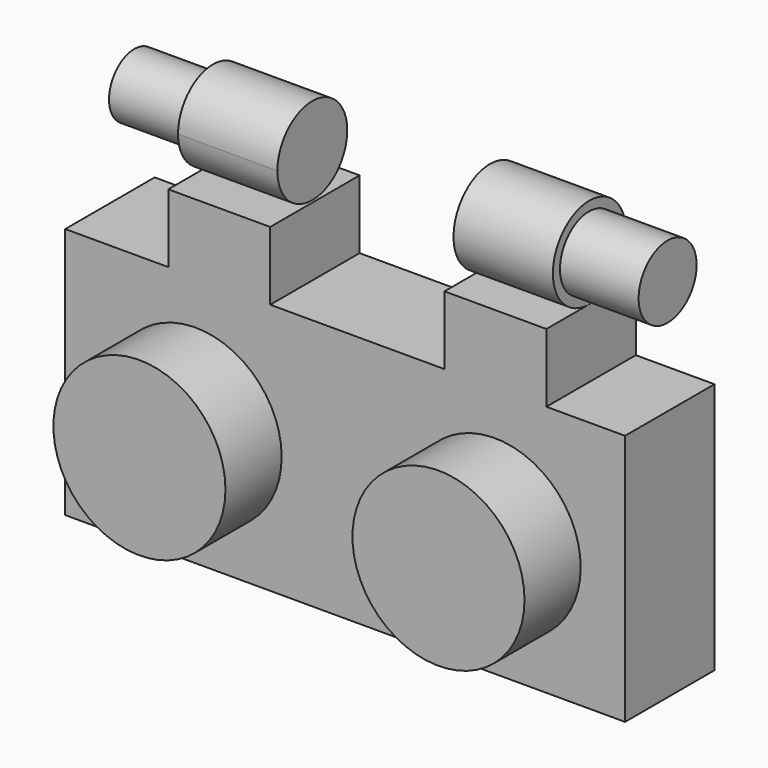
from build123d import *

# Parameters (mm, degrees)
F0_W      = 15.78
F0_H      = 7.1
F1_DEPTH  = 3.15
F2_R      = 2.425
F3_DEPTH  = 1.98
F4_W      = 2.872746
F4_H      = 3.15
F5_DEPTH  = 1.93
F6_R      = 1.285428
F7_DEPTH  = 2.8
F10_DEPTH = 2.8
F11_R     = 1.021818
F12_DEPTH = 2.217
F13_R     = 0.891313
F14_DEPTH = 2.217


with BuildPart() as f1:
    # F0 (on Front) → F1 (new body)
    with BuildSketch(Plane.XZ):
        with Locations((-58.569535, 14.6044)):
            Rectangle(F0_W, F0_H)
    extrude(amount=F1_DEPTH)

    # F2 (on face) → F3 (join)
    with BuildSketch(Plane.XZ.offset(3.15)):
        with Locations((-62.784535, 14.4794)):
            Circle(F2_R)
        with Locations((-54.354535, 14.4794)):
            Circle(F2_R)
    extrude(amount=F3_DEPTH)

    # F4 (on face) → F5 (join)
    with BuildSketch(Plane.XY.offset(18.1544)):
        with Locations((-62.118547, -1.575)):
            Rectangle(F4_W, F4_H)
        with Locations((-54.332679, -1.575)):
            Rectangle(F4_W, F4_H)
    extrude(amount=F5_DEPTH)


with BuildPart() as f7:
    # F6 (on face) → F7 (new body)
    with BuildSketch(Plane.YZ.offset(-52.896306)):
        with Locations((-1.636625, 21.369828)):
            Circle(F6_R)
    extrude(amount=-F7_DEPTH)

    # F11 (on face) → F12 (join)
    with BuildSketch(Plane.YZ.offset(-52.896306)):
        with Locations((-1.65032, 21.370875)):
            Circle(F11_R)
    extrude(amount=F12_DEPTH)


with BuildPart() as f10:
    # F9 (on face) → F10 (new body)
    with BuildSketch(Plane(origin=(-63.55492, 0, 0), x_dir=(0, -1, 0), z_dir=(-1, 0, 0))):
        with BuildLine():
            ThreePointArc((1.575, 20.0844), (2.445452, 20.444953), (2.806005, 21.315405))
            ThreePointArc((2.806005, 21.315405), (0.704548, 22.185857), (1.575, 20.0844))
        make_face()
    extrude(amount=-F10_DEPTH)

    # F13 (on face) → F14 (join)
    with BuildSketch(Plane(origin=(-63.55492, 0, 0), x_dir=(0, -1, 0), z_dir=(-1, 0, 0))):
        with Locations((1.575, 21.315405)):
            Circle(F13_R)
    extrude(amount=F14_DEPTH)


solid = Compound([f1.part, f7.part, f10.part])
